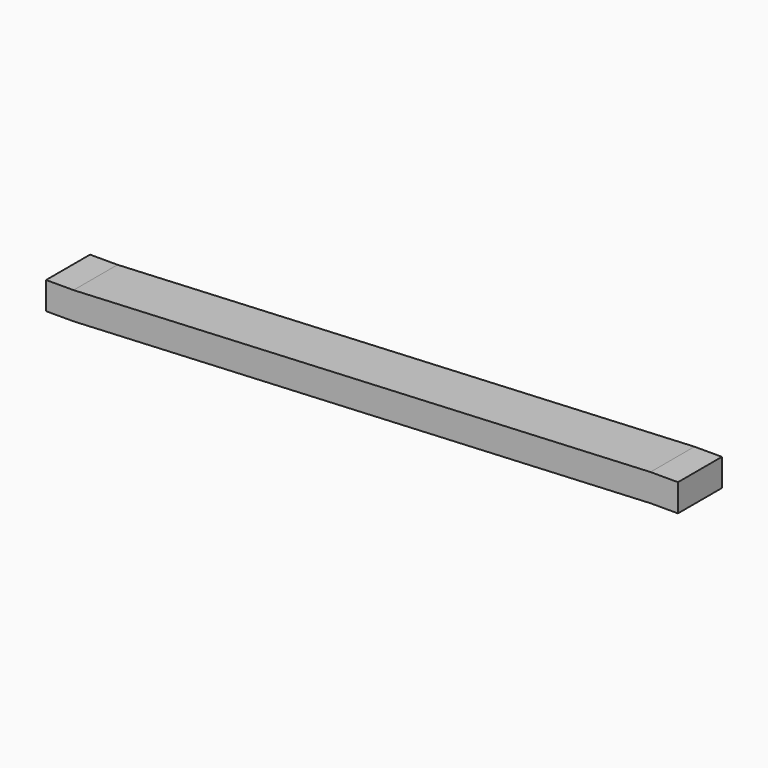
from build123d import *

# Parameters (mm, degrees)
F1_DEPTH = 50.8
F2_R     = 6.35
F3_DEPTH = 6.35
F4_R     = 12.7
F5_DEPTH = 19.05
F6_R     = 6.35
F7_DEPTH = 6.35


with BuildPart() as f1:
    # F0 (on Front) → F1 (new body)
    with BuildSketch(Plane.XZ):
        Polygon((0, 25.4), (0, 0), (25.4, 0), (558.8, 25.4), (584.2, 25.4), (584.2, 50.8), (558.8, 50.8), (25.4, 25.4), align=None)
    extrude(amount=F1_DEPTH)

    # F2 (on Top) → F3 (cut)
    with BuildSketch(Plane.XY):
        with Locations((12.7, -25.4)):
            Circle(F2_R)
    extrude(amount=F3_DEPTH, mode=Mode.SUBTRACT)

    # F4 (on Top) → F5 (cut)
    with BuildSketch(Plane.XY):
        with Locations((292.1, -25.4)):
            Circle(F4_R)
    extrude(amount=F5_DEPTH, mode=Mode.SUBTRACT)

    # F6 (on face) → F7 (cut)
    with BuildSketch(Plane(origin=(0, 0, 25.4), x_dir=(1, 0, 0), z_dir=(0, 0, -1))):
        with Locations((571.5, 25.4)):
            Circle(F6_R)
    extrude(amount=-F7_DEPTH, mode=Mode.SUBTRACT)


solid = f1.part
